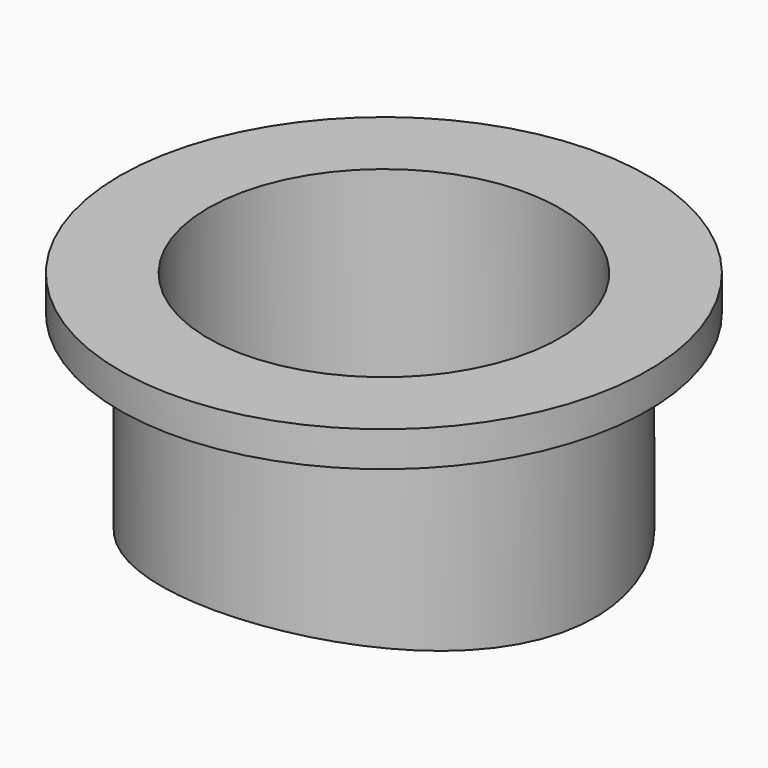
from build123d import *

# Parameters (mm, degrees)
F0_W          = 2.54
F0_H          = 12.7
F3_DEPTH      = 25.4
F2_R          = 69.85
F4_DEPTH      = 25.4
F4_DEPTH_BACK = 25.4


with BuildPart() as f1:
    # F0 (on Front) → F1 (revolve)
    with BuildSketch(Plane.XZ):
        with Locations((-13.97, 6.35)):
            Rectangle(F0_W, F0_H)
        Polygon((-15.24, 12.7), (-12.7, 12.7), (-12.7, 15.24), (-19.05, 15.24), (-19.05, 12.7), align=None)
    revolve(axis=Axis((0, 0, 10.1733254269), (0, 0, 1)))

    # F3 (add): a face of the model
    f3_faces = [f1.faces().sort_by_distance(p)[0] for p in [
        (14.8089477062, 0, 0),
    ]]
    extrude(f3_faces, amount=F3_DEPTH)

    # F2 (on Front) → F4 (cut, two sides)
    with BuildSketch(Plane.XZ) as f4_sk:
        with Locations((0, -69.85)):
            Circle(F2_R)
    extrude(amount=-F4_DEPTH, mode=Mode.SUBTRACT)
    extrude(f4_sk.sketch, amount=F4_DEPTH_BACK, mode=Mode.SUBTRACT)


solid = f1.part
